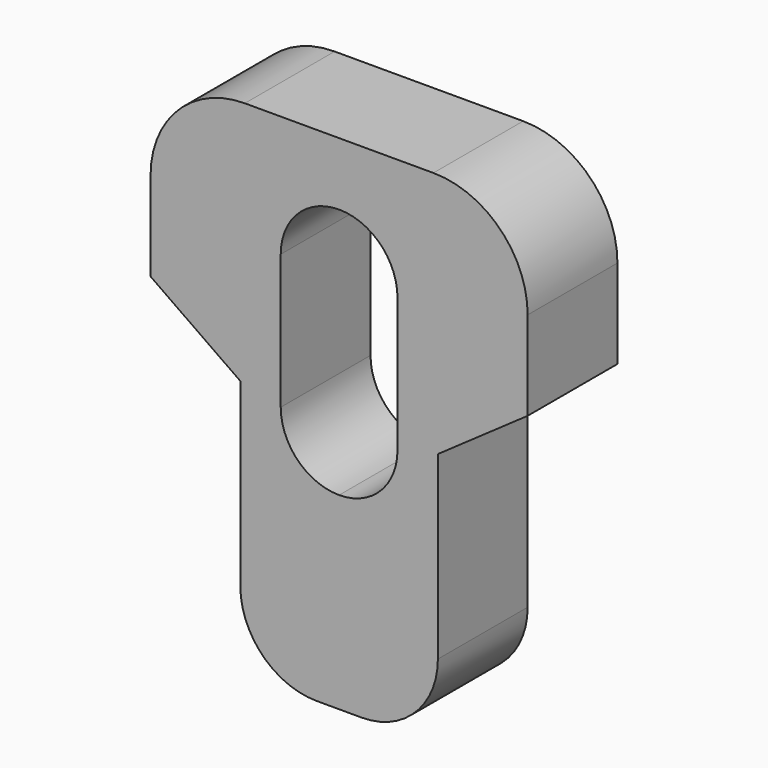
from build123d import *

# Parameters (mm, degrees)
F1_DEPTH = 25


with BuildPart() as f1:
    # F0 (on Front) → F1 (new body)
    with BuildSketch(Plane.XZ):
        with BuildLine():
            Line((-22, 25.36407), (-22, -14.838923))
            ThreePointArc((-22, -14.838923), (-17.020815, -26.859738), (-5, -31.838923))
            Line((-5, -31.838923), (0, -31.838923))
            Line((0, -31.838923), (5, -31.838923))
            ThreePointArc((5, -31.838923), (17.020815, -26.859738), (22, -14.838923))
            Line((22, -14.838923), (22, 25.36407))
            Line((22, 25.36407), (42, 39.36407))
            Line((42, 39.36407), (42, 59.161077))
            ThreePointArc((42, 59.161077), (35.849242, 74.010319), (21, 80.161077))
            Line((21, 80.161077), (0, 80.161077))
            Line((0, 80.161077), (-21, 80.161077))
            ThreePointArc((-21, 80.161077), (-35.849242, 74.010319), (-42, 59.161077))
            Line((-42, 59.161077), (-42, 39.36407))
            Line((-42, 39.36407), (-22, 25.36407))
        make_face()
        with BuildLine():
            ThreePointArc((-13, 53.161077), (-9.192388, 62.353465), (0, 66.161077))
            ThreePointArc((0, 66.161077), (9.192388, 62.353465), (13, 53.161077))
            Line((13, 53.161077), (13, 23.161077))
            ThreePointArc((13, 23.161077), (9.192388, 13.968689), (0, 10.161077))
            ThreePointArc((0, 10.161077), (-9.192388, 13.968689), (-13, 23.161077))
            Line((-13, 23.161077), (-13, 53.161077))
        make_face(mode=Mode.SUBTRACT)
    extrude(amount=F1_DEPTH)


solid = f1.part
